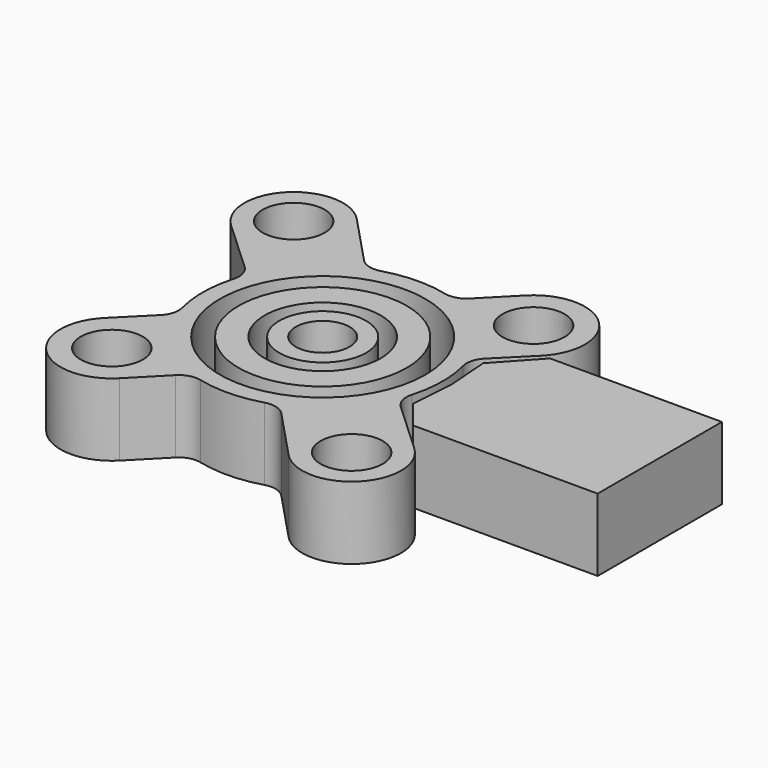
from build123d import *

# Parameters (mm, degrees)
SKETCH001_R             = 4.958328
SKETCH001_R_2           = 1.5
SKETCH001_R_3           = 4.05855
SKETCH001_R_4           = 2.802528
SKETCH001_R_5           = 2.095874
SKETCH001_R_6           = 1.301286
EXTRUDE_DEPTH           = 3.5
EXTRUDE_PLACEMENT_ANGLE = 180


with BuildPart() as part:
    # Sketch001 → Extrude (new body)
    with BuildSketch(Plane.XY):
        with BuildLine():
            ThreePointArc((8.366924, 4.936506), (8.441586, 8.36515), (5.012404, 8.321677))
            Line((2.680297, 5.845762), (5.012404, 8.321677))
            ThreePointArc((1.638648, 5.563707), (2.199329, 5.557542), (2.680297, 5.845762))
            ThreePointArc((1.638648, 5.563707), (0.125732, 5.798637), (-1.395946, 5.629506))
            ThreePointArc((-2.379545, 5.90775), (-1.924662, 5.638128), (-1.395946, 5.629506))
            Line((-3.863349, 7.418599), (-2.379545, 5.90775))
            ThreePointArc((-3.863349, 7.418599), (-7.375053, 7.442442), (-7.383153, 3.930667))
            Line((-5.885862, 2.433181), (-7.383153, 3.930667))
            ThreePointArc((-5.616576, 1.447093), (-5.620389, 1.975865), (-5.885862, 2.433181))
            ThreePointArc((-5.616576, 1.447093), (-5.799541, -0.072984), (-5.578381, -1.587975))
            ThreePointArc((-5.869899, -2.627015), (-5.577316, -2.148689), (-5.578381, -1.587975))
            Line((-5.869899, -2.627015), (-8.366924, -4.936506))
            ThreePointArc((-8.366924, -4.936506), (-8.441586, -8.36515), (-5.012404, -8.321677))
            Line((-2.680297, -5.845762), (-5.012404, -8.321677))
            ThreePointArc((-1.638648, -5.563707), (-2.199329, -5.557542), (-2.680297, -5.845762))
            ThreePointArc((-1.638648, -5.563707), (-0.125732, -5.798637), (1.395946, -5.629506))
            ThreePointArc((2.379545, -5.90775), (1.924662, -5.638128), (1.395946, -5.629506))
            Line((2.379545, -5.90775), (3.863349, -7.418599))
            ThreePointArc((3.863349, -7.418599), (7.375053, -7.442442), (7.383153, -3.930667))
            Line((7.383153, -3.930667), (5.885862, -2.433181))
            ThreePointArc((5.616576, -1.447093), (5.620389, -1.975865), (5.885862, -2.433181))
            ThreePointArc((5.616576, -1.447093), (5.799541, 0.072984), (5.578381, 1.587975))
            ThreePointArc((5.869899, 2.627015), (5.577316, 2.148689), (5.578381, 1.587975))
            Line((5.869899, 2.627015), (8.366924, 4.936506))
        make_face()
        Circle(SKETCH001_R, mode=Mode.SUBTRACT)
        with Locations((6.747995, 6.686895)):
            Circle(SKETCH001_R_2, mode=Mode.SUBTRACT)
        with Locations((-5.631069, 5.682522)):
            Circle(SKETCH001_R_2, mode=Mode.SUBTRACT)
        with Locations((-6.747995, -6.686895)):
            Circle(SKETCH001_R_2, mode=Mode.SUBTRACT)
        with Locations((5.631069, -5.682522)):
            Circle(SKETCH001_R_2, mode=Mode.SUBTRACT)
        Polygon((16.088053, -3.976689), (16.088053, 3.52014), (7.183914, 3.52014), (6.072395, 2.14391), (6.225872, 0), (6.064379, -2.093428), (7.794163, -3.976689), align=None)
        Circle(SKETCH001_R_3)
        Circle(SKETCH001_R_4, mode=Mode.SUBTRACT)
        Circle(SKETCH001_R_5)
        Circle(SKETCH001_R_6, mode=Mode.SUBTRACT)
    extrude(amount=EXTRUDE_DEPTH)


with BuildPart() as part_1:
    # Extrude placement: moved
    add(part.part.rotate(Axis((0, 0, 0), (1, 0, 0)), EXTRUDE_PLACEMENT_ANGLE))


solid = part_1.part
